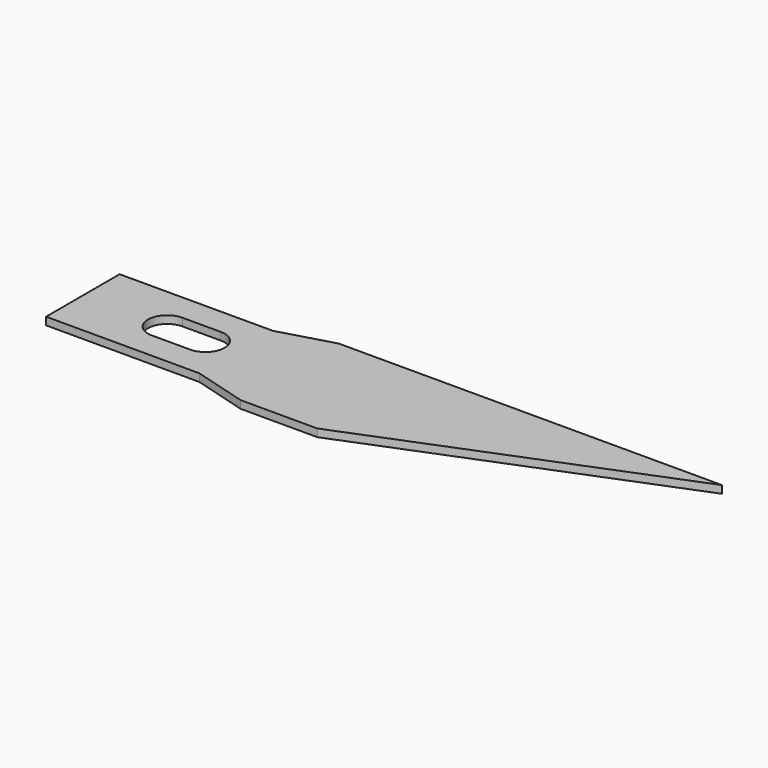
from build123d import *

# Parameters (mm, degrees)
PAD_DEPTH = 0.5


with BuildPart() as part:
    # Sketch → Pad (new body)
    with BuildSketch(Plane.XY):
        Polygon((-3.256772, 2.764826), (-3.256772, 8.764826), (6.743228, 8.764826), (10.243228, 9.764826), (35.243228, 9.764826), (15.243228, 1.764826), (10.243228, 1.764826), (6.743228, 2.764826), align=None)
        with BuildLine():
            ThreePointArc((2.243228, 7.014826), (0.993228, 5.764826), (2.243228, 4.514826))
            Line((2.243228, 4.514826), (4.743228, 4.514826))
            ThreePointArc((4.743228, 4.514826), (5.993228, 5.764826), (4.743228, 7.014826))
            Line((2.243228, 7.014826), (4.743228, 7.014826))
        make_face(mode=Mode.SUBTRACT)
    extrude(amount=PAD_DEPTH)


solid = part.part
